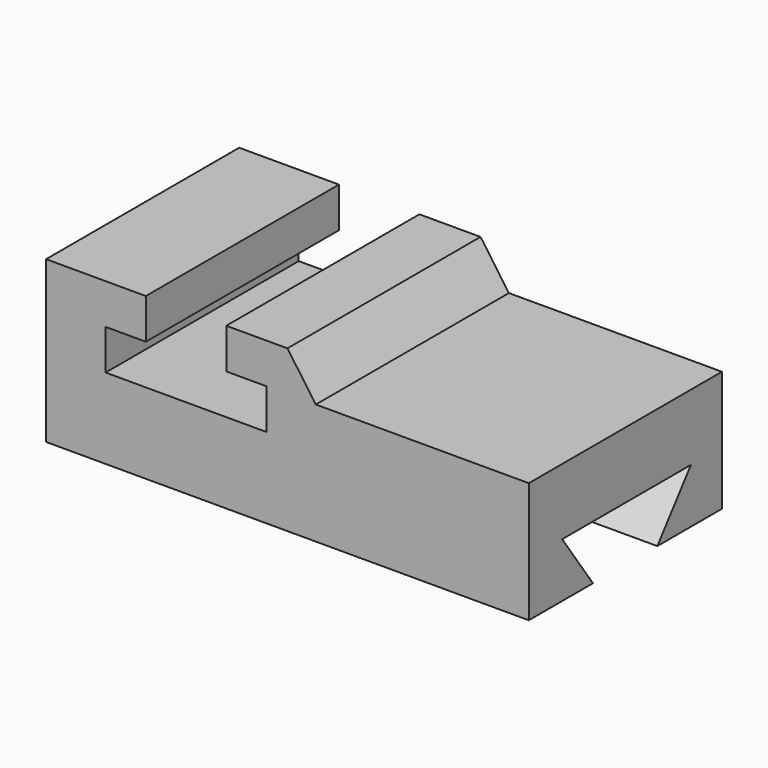
from build123d import *

# Parameters (mm, degrees)
F1_DEPTH = 76.2
F3_DEPTH = 76.2
F5_DEPTH = 152.4


with BuildPart() as f1:
    # F0 (on Front) → F1 (new body)
    with BuildSketch(Plane.XZ):
        Polygon((0, 50.8), (0, 0), (152.4, 0), (152.4, 38.1), (85.151714, 38.1), (76.2, 50.8), align=None)
    extrude(amount=-F1_DEPTH)

    # F2 (on face) → F3 (cut)
    with BuildSketch(Plane.XZ):
        Polygon((56.892031, 50.8), (31.492031, 50.8), (31.492031, 38.1), (18.792031, 38.1), (18.792031, 25.4), (69.592031, 25.4), (69.592031, 38.1), (56.892031, 38.1), align=None)
    extrude(amount=-F3_DEPTH, mode=Mode.SUBTRACT)

    # F4 (on face) → F5 (cut)
    with BuildSketch(Plane.YZ.offset(152.4)):
        Polygon((63.962197, 17.182477), (13.162197, 17.182477), (25.314642, 0), (50.714642, 0), align=None)
    extrude(amount=-F5_DEPTH, mode=Mode.SUBTRACT)


solid = f1.part
